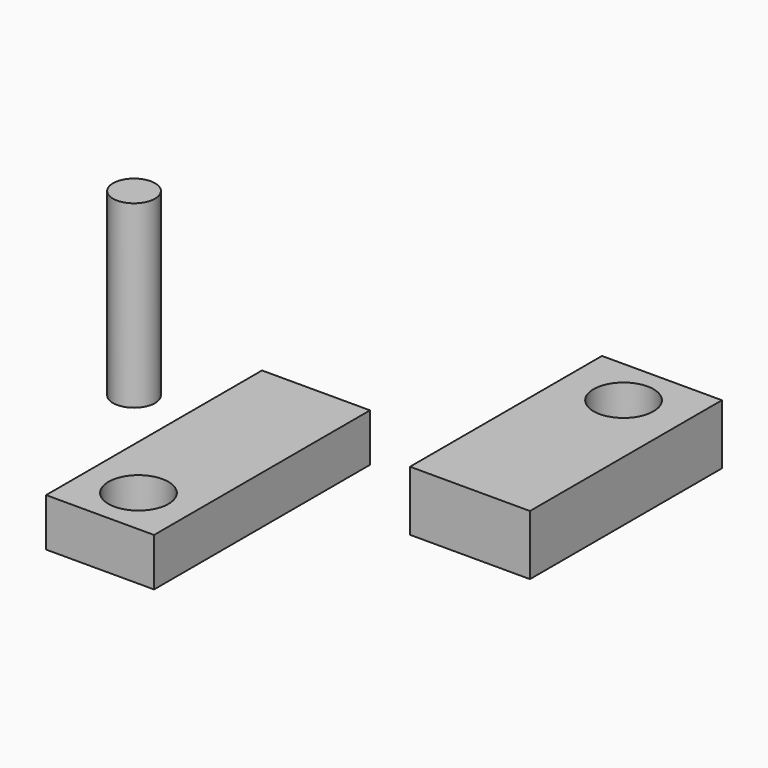
from build123d import *

# Parameters (mm, degrees)
F0_W     = 20
F0_H     = 40
F0_R     = 5
F1_DEPTH = 10
F2_R     = 3.5
F3_DEPTH = 30
F4_W     = 18
F4_H     = 45
F4_R     = 5
F5_DEPTH = 8


with BuildPart() as f1:
    # F0 (on Top) → F1 (new body)
    with BuildSketch(Plane.XY):
        with Locations((7.998349, 23.00726)):
            Rectangle(F0_W, F0_H)
        with Locations((7.998349, 35.00726)):
            Circle(F0_R, mode=Mode.SUBTRACT)
    extrude(amount=F1_DEPTH)


with BuildPart() as f3:
    # F2 (on Top) → F3 (new body)
    with BuildSketch(Plane.XY):
        with Locations((-54.618616, 11.272082)):
            Circle(F2_R)
    extrude(amount=F3_DEPTH)


with BuildPart() as f5:
    # F4 (on Top) → F5 (new body)
    with BuildSketch(Plane.XY):
        with Locations((-27.396696, -7.335631)):
            Rectangle(F4_W, F4_H)
        with Locations((-27.396696, -21.835631)):
            Circle(F4_R, mode=Mode.SUBTRACT)
    extrude(amount=F5_DEPTH)


solid = Compound([f1.part, f3.part, f5.part])
